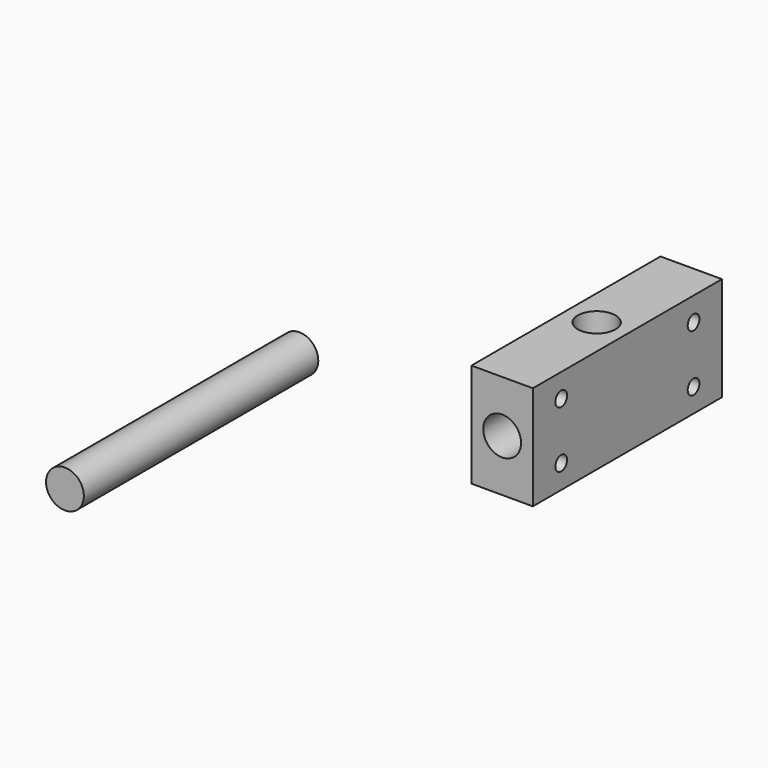
from build123d import *

# Parameters (mm, degrees)
F0_W     = 50
F0_H     = 22
F0_R     = 1.55
F1_DEPTH = 13
F3_D     = 8
F3_DEPTH = 30
F3_TIP   = 2.4034424761
F4_R     = 4
F5_DEPTH = 62
F7_D     = 8
F7_DEPTH = 10
F7_TIP   = 2.4034424761


with BuildPart() as f1:
    # F0 (on Right) → F1 (new body)
    with BuildSketch(Plane.YZ):
        with Locations((25, 11)):
            Rectangle(F0_W, F0_H)
        with Locations((7.5, 5)):
            Circle(F0_R, mode=Mode.SUBTRACT)
        with Locations((42.5, 5)):
            Circle(F0_R, mode=Mode.SUBTRACT)
        with Locations((7.5, 17)):
            Circle(F0_R, mode=Mode.SUBTRACT)
        with Locations((42.5, 17)):
            Circle(F0_R, mode=Mode.SUBTRACT)
    extrude(amount=F1_DEPTH)

    # F3
    with Locations(Plane.XZ):
        with Locations((6.5, 11)):
            Hole(F3_D / 2, depth=F3_DEPTH)
            with Locations((0, 0, -(F3_DEPTH + F3_TIP / 2))):  # 118° drill point
                Cone(0, F3_D / 2, F3_TIP, mode=Mode.SUBTRACT)

    # F7
    with Locations(Plane.XY.offset(22)):
        with Locations((6.5, 25)):
            Hole(F7_D / 2, depth=F7_DEPTH)
            with Locations((0, 0, -(F7_DEPTH + F7_TIP / 2))):  # 118° drill point
                Cone(0, F7_D / 2, F7_TIP, mode=Mode.SUBTRACT)


with BuildPart() as f5:
    # F4 (on Front) → F5 (new body)
    with BuildSketch(Plane.XZ):
        with Locations((-36.4002138376, 12.375690043)):
            Circle(F4_R)
    extrude(amount=F5_DEPTH)


solid = Compound([f1.part, f5.part])
